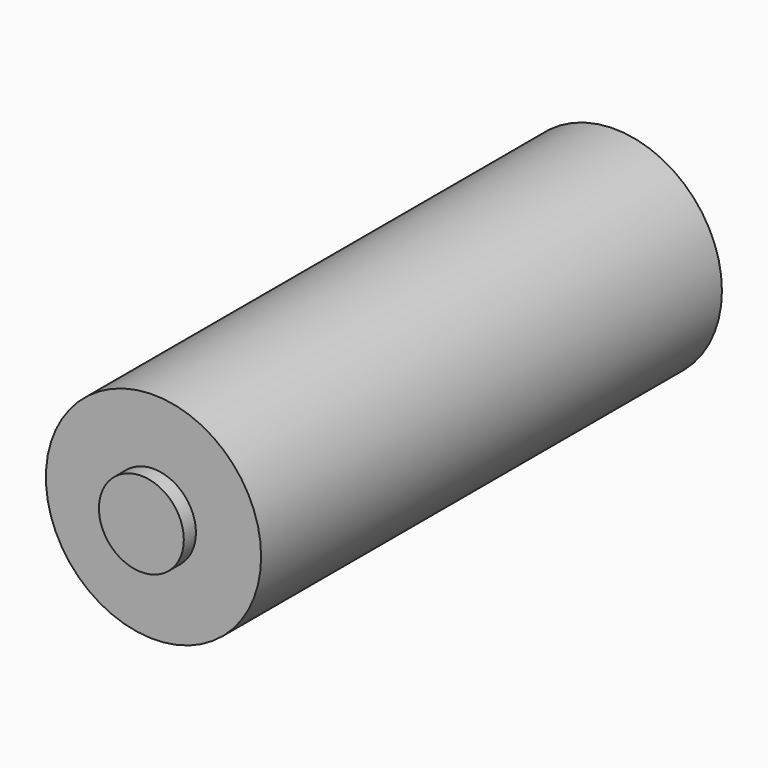
from build123d import *

# Parameters (mm, degrees)
F0_R     = 3.55
F1_DEPTH = 9.5
F2_R     = 1.4
F3_DEPTH = 10
F4_W     = 10
F4_H     = 10
F5_DEPTH = 10


with BuildPart() as f1:
    # F0 (on Front) → F1 (new body, symmetric)
    with BuildSketch(Plane.XZ):
        Circle(F0_R)
    extrude(amount=F1_DEPTH, both=True)


with BuildPart() as f3:
    # F2 (on Front) → F3 (new body, symmetric)
    with BuildSketch(Plane.XZ):
        Circle(F2_R)
    extrude(amount=F3_DEPTH, both=True)


with BuildPart() as f5:
    # F4 (on Front) → F5 (new body)
    with BuildSketch(Plane.XZ):
        with Locations((5, 5)):
            Rectangle(F4_W, F4_H)
    extrude(amount=F5_DEPTH)


solid = Compound([f1.part, f3.part])
